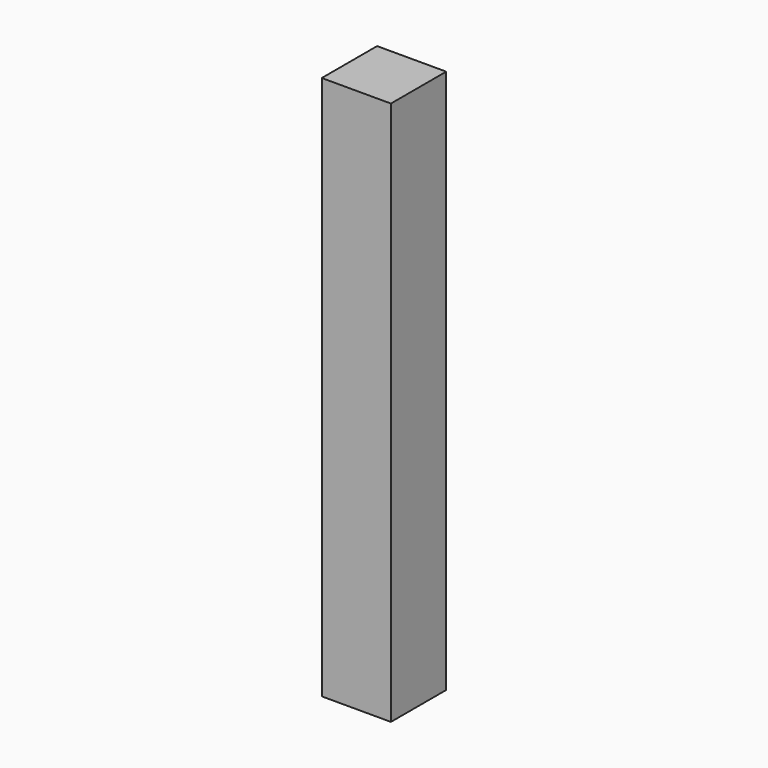
from build123d import *

# Parameters (mm, degrees)
F1_W     = 50.8
F1_H     = 50.8
F2_DEPTH = 400.05


with BuildPart() as f2:
    # F1 (on face) → F2 (new body)
    with BuildSketch(Plane.XY):
        Rectangle(F1_W, F1_H)
    extrude(amount=F2_DEPTH)


solid = f2.part
